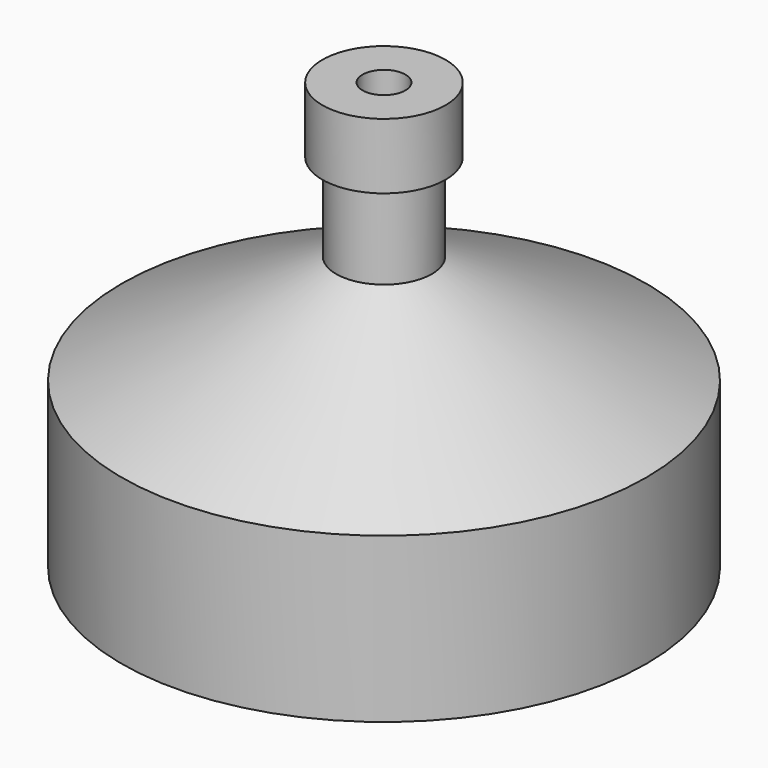
from build123d import *

# Parameters (mm, degrees)
F0_R     = 12
F0_R_2   = 10
F1_DEPTH = 7.5
F2_R     = 12
F3_DEPTH = 5
F3_TAPER = 63
F4_R     = 10
F5_DEPTH = 5
F5_TAPER = 61
F6_R     = 2.1869474725
F6_R_2   = 0.9797612236
F7_DEPTH = 4
F8_R     = 2.8165068541
F8_R_2   = 2.1869474725
F8_R_3   = 0.9797612236
F9_DEPTH = 3


with BuildPart() as f1:
    # F0 (on Top) → F1 (new body)
    with BuildSketch(Plane.XY):
        Circle(F0_R)
        Circle(F0_R_2, mode=Mode.SUBTRACT)
    extrude(amount=F1_DEPTH)

    # F2 (on face) → F3 (join)
    with BuildSketch(Plane.XY.offset(7.5)):
        Circle(F2_R)
    extrude(amount=F3_DEPTH, taper=F3_TAPER)

    # F4 (on face) → F5 (cut)
    with BuildSketch(Plane(origin=(0, 0, 7.5), x_dir=(1, 0, 0), z_dir=(0, 0, -1))):
        Circle(F4_R)
    extrude(amount=-F5_DEPTH, taper=F5_TAPER, mode=Mode.SUBTRACT)

    # F6 (on face) → F7 (join)
    with BuildSketch(Plane.XY.offset(12.5)):
        Circle(F6_R)
        Circle(F6_R_2, mode=Mode.SUBTRACT)
    extrude(amount=F7_DEPTH)

    # F8 (on face) → F9 (join)
    with BuildSketch(Plane.XY.offset(16.5)):
        Circle(F8_R)
        Circle(F8_R_2, mode=Mode.SUBTRACT)
        Circle(F8_R_2)
        Circle(F8_R_3, mode=Mode.SUBTRACT)
    extrude(amount=F9_DEPTH)


solid = f1.part
